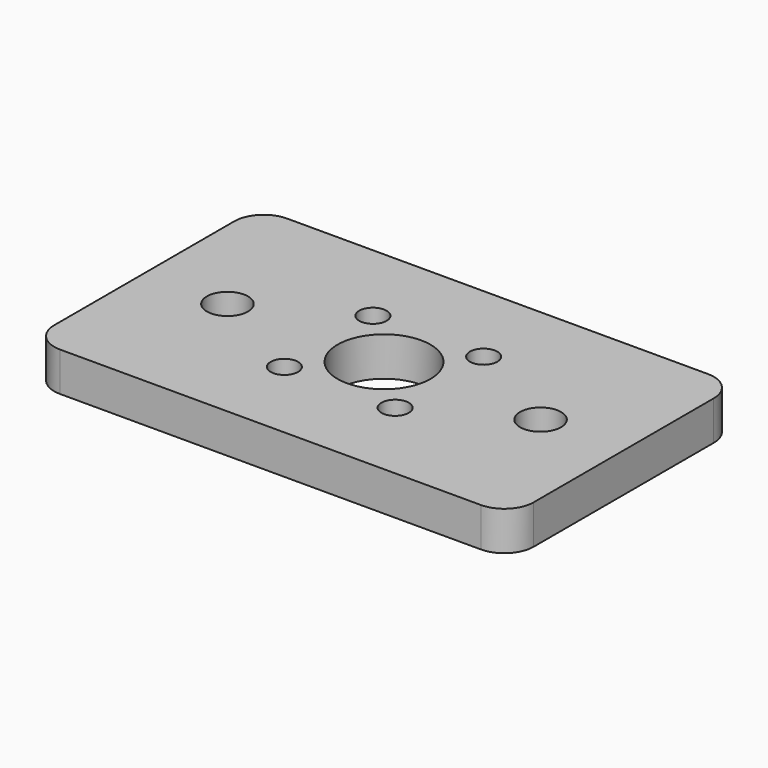
from build123d import *

# Parameters (mm, degrees)
F0_W     = 49
F0_H     = 29
F0_R     = 2.1
F0_R_2   = 1.4
F0_R_3   = 4.75
F1_DEPTH = 4
F2_R     = 3


with BuildPart() as f1:
    # F0 (on Top) → F1 (new body)
    with BuildSketch(Plane.XY):
        with Locations((-42.184137, 25.650264)):
            Rectangle(F0_W, F0_H)
        with Locations((-58.184137, 25.650264)):
            Circle(F0_R, mode=Mode.SUBTRACT)
        with Locations((-47.840992, 19.99341)):
            Circle(F0_R_2, mode=Mode.SUBTRACT)
        with Locations((-42.184137, 25.650264)):
            Circle(F0_R_3, mode=Mode.SUBTRACT)
        with Locations((-36.527283, 19.99341)):
            Circle(F0_R_2, mode=Mode.SUBTRACT)
        with Locations((-47.840992, 31.307118)):
            Circle(F0_R_2, mode=Mode.SUBTRACT)
        with Locations((-36.527283, 31.307118)):
            Circle(F0_R_2, mode=Mode.SUBTRACT)
        with Locations((-26.184137, 25.650264)):
            Circle(F0_R, mode=Mode.SUBTRACT)
    extrude(amount=F1_DEPTH)

    # F2
    f2_edges = [f1.edges().sort_by_distance(p)[0] for p in [
        (-66.684137, 11.150264, 2),
        (-17.684137, 11.150264, 2),
        (-17.684137, 40.150264, 2),
        (-66.684137, 40.150264, 2),
    ]]
    fillet(f2_edges, radius=F2_R)


solid = f1.part
